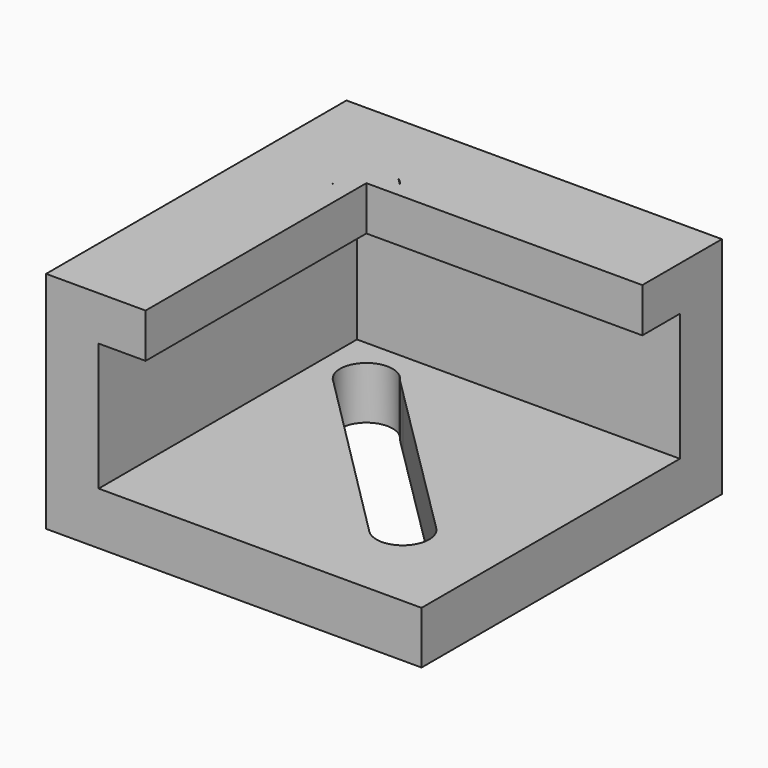
from build123d import *

# Parameters (mm, degrees)
F1_DEPTH = 3.556
F2_DEPTH = 12.192
F3_START = 12.192
F3_DEPTH = 2.9972


with BuildPart() as f1:
    # F0 (on Top) → F1 (new body)
    with BuildSketch(Plane.XY):
        Polygon((0, 25.4), (0, 0), (3.556, 0), (3.556, 21.844), (25.4, 21.844), (25.4, 25.4), align=None)
        with BuildLine():
            Line((3.556, 21.844), (3.556, 0))
            Line((3.556, 0), (6.731, 0))
            Line((6.731, 0), (6.731, 16.162614712))
            Line((6.731, 16.162614712), (5.5840602845, 17.3103928864))
            ThreePointArc((5.5840602845, 17.3103928864), (5.47330485, 17.412223604), (5.3715550967, 17.5230534241))
            ThreePointArc((5.3715550967, 17.5230534241), (5.3980463342, 19.8456556526), (7.6994134833, 20.1601268643))
            ThreePointArc((7.6994134833, 20.1601268643), (7.9854877449, 19.9289779751), (8.2178836864, 19.6439158442))
            Line((8.2178836864, 19.6439158442), (9.1970662222, 18.669))
            Line((9.1970662222, 18.669), (25.4, 18.669))
            Line((25.4, 18.669), (25.4, 21.844))
            Line((25.4, 21.844), (3.556, 21.844))
        make_face()
        with BuildLine():
            Line((6.731, 16.162614712), (6.731, 0))
            Line((6.731, 0), (19.05, 0))
            Line((19.05, 0), (19.05, 4.572))
            ThreePointArc((19.05, 4.572), (18.3692887661, 4.7074665251), (17.79230485, 5.093223604))
            Line((17.79230485, 5.093223604), (6.731, 16.162614712))
        make_face()
        with BuildLine():
            Line((19.05, 4.572), (19.05, 0))
            Line((19.05, 0), (25.4, 0))
            Line((25.4, 0), (25.4, 18.669))
            Line((25.4, 18.669), (9.1970662222, 18.669))
            Line((9.1970662222, 18.669), (20.3044877449, 7.6099779751))
            ThreePointArc((20.3044877449, 7.6099779751), (20.6919140067, 7.0322040712), (20.828, 6.35))
            ThreePointArc((20.828, 6.35), (20.3072358569, 5.0927641431), (19.05, 4.572))
        make_face()
    extrude(amount=F1_DEPTH)

    # F0 (on Top) → F2 (join)
    with BuildSketch(Plane.XY):
        Polygon((0, 25.4), (0, 0), (3.556, 0), (3.556, 21.844), (25.4, 21.844), (25.4, 25.4), align=None)
    extrude(amount=F2_DEPTH)

    # F0 (on Top) → F3 (join)
    with BuildSketch(Plane.XY.offset(F3_START)):
        with BuildLine():
            Line((3.556, 21.844), (3.556, 0))
            Line((3.556, 0), (6.731, 0))
            Line((6.731, 0), (6.731, 16.162614712))
            Line((6.731, 16.162614712), (5.5840602845, 17.3103928864))
            ThreePointArc((5.5840602845, 17.3103928864), (5.47330485, 17.412223604), (5.3715550967, 17.5230534241))
            ThreePointArc((5.3715550967, 17.5230534241), (5.3980463342, 19.8456556526), (7.6994134833, 20.1601268643))
            ThreePointArc((7.6994134833, 20.1601268643), (7.9854877449, 19.9289779751), (8.2178836864, 19.6439158442))
            Line((8.2178836864, 19.6439158442), (9.1970662222, 18.669))
            Line((9.1970662222, 18.669), (25.4, 18.669))
            Line((25.4, 18.669), (25.4, 21.844))
            Line((25.4, 21.844), (3.556, 21.844))
        make_face()
        with BuildLine():
            ThreePointArc((5.5840602845, 17.3103928864), (6.1203935178, 16.9991366152), (6.731, 16.891))
            Line((6.731, 16.891), (6.731, 18.669))
            Line((6.731, 18.669), (8.509, 18.669))
            ThreePointArc((8.509, 18.669), (8.4346671028, 19.1777262553), (8.2178836864, 19.6439158442))
            Line((8.2178836864, 19.6439158442), (7.6994134833, 20.1601268643))
            ThreePointArc((7.6994134833, 20.1601268643), (5.3980463342, 19.8456556526), (5.3715550967, 17.5230534241))
            Line((5.3715550967, 17.5230534241), (5.5840602845, 17.3103928864))
        make_face()
        with BuildLine():
            Line((5.5840602845, 17.3103928864), (6.731, 16.162614712))
            Line((6.731, 16.162614712), (6.731, 16.891))
            ThreePointArc((6.731, 16.891), (6.1203935178, 16.9991366152), (5.5840602845, 17.3103928864))
        make_face()
        with BuildLine():
            ThreePointArc((8.2178836864, 19.6439158442), (8.4346671028, 19.1777262553), (8.509, 18.669))
            Line((8.509, 18.669), (9.1970662222, 18.669))
            Line((9.1970662222, 18.669), (8.2178836864, 19.6439158442))
        make_face()
        Polygon((0, 25.4), (0, 0), (3.556, 0), (3.556, 21.844), (25.4, 21.844), (25.4, 25.4), align=None)
    extrude(amount=F3_DEPTH)


solid = f1.part
